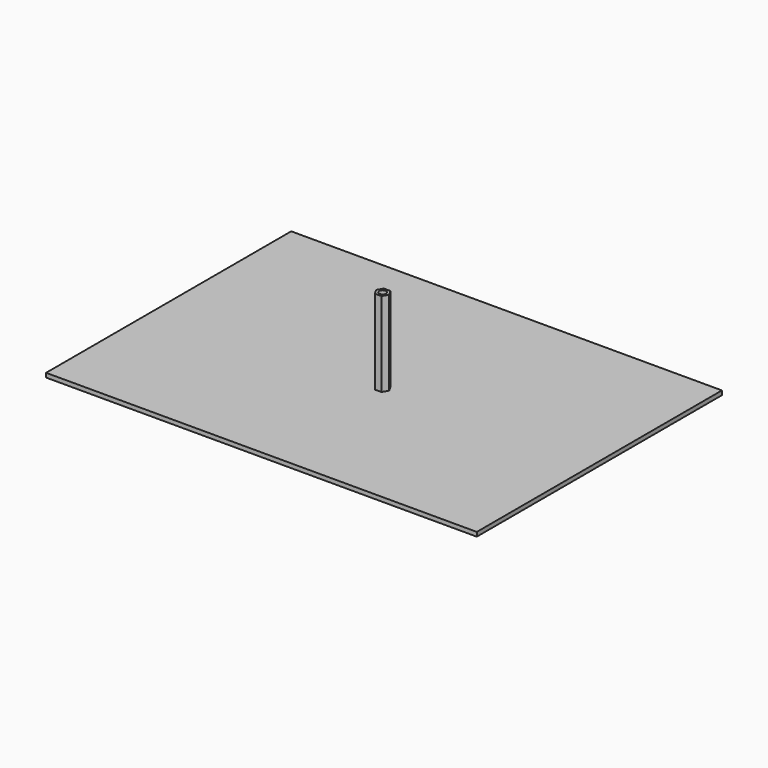
from build123d import *

# Parameters (mm, degrees)
F0_W     = 306.051374
F0_H     = 217.715024
F1_DEPTH = 3
F2_R     = 2.5
F3_DEPTH = 10
F4_DEPTH = 60


with BuildPart() as f1:
    # F0 (on Top) → F1 (new body)
    with BuildSketch(Plane.XY):
        Rectangle(F0_W, F0_H)
    extrude(amount=F1_DEPTH)

    # F2 (on face) → F3 (join)
    with BuildSketch(Plane.XY.offset(3)):
        with Locations((4.40499, -6.694891)):
            Circle(F2_R)
    extrude(amount=F3_DEPTH)


with BuildPart() as f4:
    # F2 (on face) → F4 (new body)
    with BuildSketch(Plane.XY.offset(3)):
        Polygon((6.714391, -2.694891), (2.095589, -2.694891), (-0.213812, -6.694891), (2.095589, -10.694891), (6.714391, -10.694891), (9.023792, -6.694891), align=None)
        with Locations((4.40499, -6.694891)):
            Circle(F2_R, mode=Mode.SUBTRACT)
    extrude(amount=F4_DEPTH)


solid = Compound([f1.part, f4.part])
